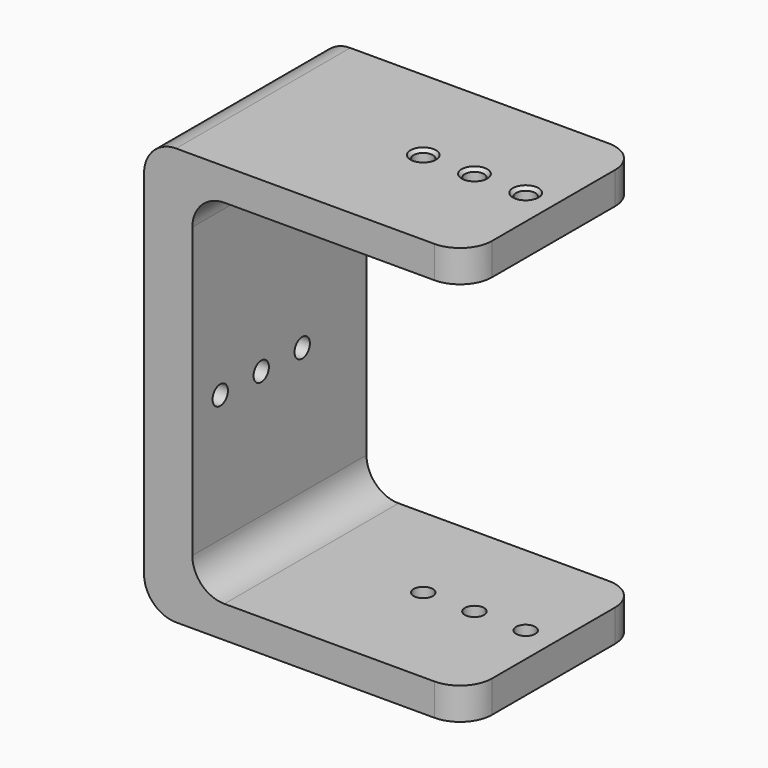
from build123d import *

# Parameters (mm, degrees)
F0_W            = 42.8076982498
F0_H            = 5
F1_DEPTH        = 34
F2_R            = 5
F3_R            = 5
F4_R            = 5
F5_R            = 5
F6_R            = 5
F7_R            = 5
F10_D           = 3
F10_CSINK_D     = 4
F10_CSINK_ANGLE = 90
F11_D           = 3
F11_CSINK_D     = 4
F11_CSINK_ANGLE = 90


with BuildPart() as f1:
    # F0 (on Front) → F1 (new body)
    with BuildSketch(Plane.XZ):
        Polygon((-30.423078686, 35.2884634584), (-37.9615426064, 35.2884634584), (-37.9615426064, -29.8653867841), (-30.423078686, -29.8653867841), (-30.423078686, -24.8653867841), (-30.423078686, 30.2884634584), align=None)
        with Locations((-9.0192295611, 32.7884634584)):
            Rectangle(F0_W, F0_H)
        with Locations((-9.0192295611, -27.3653867841)):
            Rectangle(F0_W, F0_H)
    extrude(amount=F1_DEPTH)

    # F2
    f2_edges = [f1.edges().sort_by_distance(p)[0] for p in [
        (12.38462, -34, 32.788463),
    ]]
    fillet(f2_edges, radius=F2_R)

    # F3
    f3_edges = [f1.edges().sort_by_distance(p)[0] for p in [
        (12.38462, 0, 32.788463),
    ]]
    fillet(f3_edges, radius=F3_R)

    # F4
    f4_edges = [f1.edges().sort_by_distance(p)[0] for p in [
        (12.38462, -34, -27.365387),
    ]]
    fillet(f4_edges, radius=F4_R)

    # F5
    f5_edges = [f1.edges().sort_by_distance(p)[0] for p in [
        (12.38462, 0, -27.365387),
    ]]
    fillet(f5_edges, radius=F5_R)

    # F6
    f6_edges = [f1.edges().sort_by_distance(p)[0] for p in [
        (-37.961543, -17, 35.288463),
    ]]
    fillet(f6_edges, radius=F6_R)

    # F7
    f7_edges = [f1.edges().sort_by_distance(p)[0] for p in [
        (-30.423079, -17, -24.865387),
        (-30.423079, -17, 30.288463),
        (-37.961543, -17, -29.865387),
    ]]
    fillet(f7_edges, radius=F7_R)

    # F10 (through all)
    with Locations(Plane(origin=(-37.9615426064, 0, 0), x_dir=(0, -1, 0), z_dir=(-1, 0, 0))):
        with Locations((12.5500056893, 0), (20.5500056893, 0), (28.5500056893, 0)):
            CounterSinkHole(F10_D / 2, F10_CSINK_D / 2, counter_sink_angle=F10_CSINK_ANGLE)

    # F11 (through all)
    with Locations(Plane.XY.offset(35.2884634584)):
        with Locations((-0.3527658135, -16.5143854618), (-8.3527658135, -16.5143854618), (7.6472341865, -16.5143854618)):
            CounterSinkHole(F11_D / 2, F11_CSINK_D / 2, counter_sink_angle=F11_CSINK_ANGLE)


solid = f1.part
